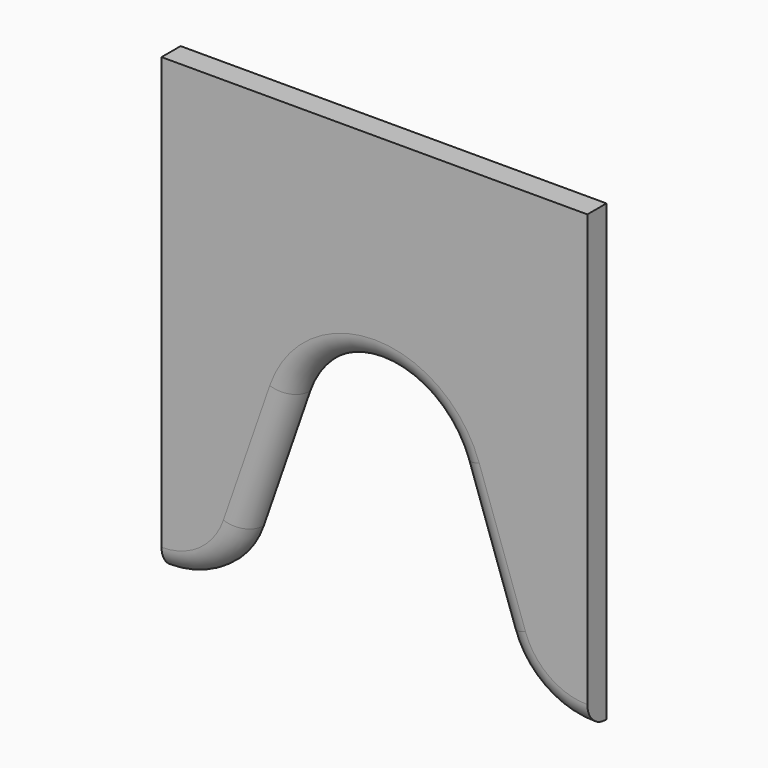
from build123d import *

# Parameters (mm, degrees)
F1_DEPTH = 5.334
F2_R     = 5.08


with BuildPart() as f1:
    # F0 (on Front) → F1 (new body)
    with BuildSketch(Plane.XZ):
        with BuildLine():
            Line((95.25, 0), (0, 0))
            Line((0, 0), (0, -101.6))
            ThreePointArc((0, -101.6), (11.431352, -97.948571), (18.629252, -88.346542))
            Line((18.629252, -88.346542), (28.995748, -58.479743))
            ThreePointArc((28.995748, -58.479743), (47.625, -45.226285), (66.254252, -58.479743))
            Line((66.254252, -58.479743), (76.620748, -88.346542))
            ThreePointArc((76.620748, -88.346542), (83.818648, -97.948571), (95.25, -101.6))
            Line((95.25, -101.6), (95.25, 0))
        make_face()
    extrude(amount=F1_DEPTH)

    # F2
    f2_edges = [f1.edges().sort_by_distance(p)[0] for p in [
        (11.431352, -5.334, -97.948571),
    ]]
    fillet(f2_edges, radius=F2_R)


solid = f1.part
